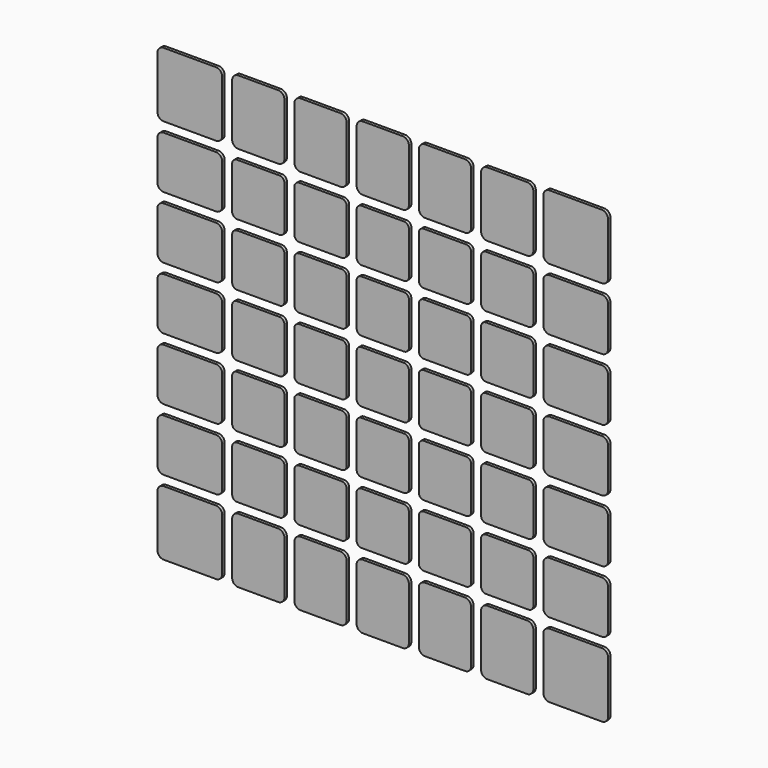
from build123d import *

# Parameters (mm, degrees)
F1_DEPTH = 0.5


with BuildPart() as f1:
    # F0 (on Front) → F1 (new body)
    with BuildSketch(Plane.XZ):
        with BuildLine():
            ThreePointArc((4.2, 3.4), (3.965685, 3.965685), (3.4, 4.2))
            Line((3.4, 4.2), (-3.4, 4.2))
            ThreePointArc((-3.4, 4.2), (-3.965685, 3.965685), (-4.2, 3.4))
            Line((-4.2, 3.4), (-4.2, -3.4))
            ThreePointArc((-4.2, -3.4), (-3.965685, -3.965685), (-3.4, -4.2))
            Line((-3.4, -4.2), (3.4, -4.2))
            ThreePointArc((3.4, -4.2), (3.965685, -3.965685), (4.2, -3.4))
            Line((4.2, -3.4), (4.2, 3.4))
        make_face()
        with BuildLine():
            ThreePointArc((6.6, 4.2), (6.034315, 3.965685), (5.8, 3.4))
            Line((5.8, 3.4), (5.8, -3.4))
            ThreePointArc((5.8, -3.4), (6.034315, -3.965685), (6.6, -4.2))
            Line((6.6, -4.2), (13.4, -4.2))
            ThreePointArc((13.4, -4.2), (13.965685, -3.965685), (14.2, -3.4))
            Line((14.2, -3.4), (14.2, 3.4))
            ThreePointArc((14.2, 3.4), (13.965685, 3.965685), (13.4, 4.2))
            Line((13.4, 4.2), (6.6, 4.2))
        make_face()
        with BuildLine():
            ThreePointArc((16.6, 4.2), (16.034315, 3.965685), (15.8, 3.4))
            Line((15.8, 3.4), (15.8, -3.4))
            ThreePointArc((15.8, -3.4), (16.034315, -3.965685), (16.6, -4.2))
            Line((16.6, -4.2), (23.4, -4.2))
            ThreePointArc((23.4, -4.2), (23.965685, -3.965685), (24.2, -3.4))
            Line((24.2, -3.4), (24.2, 3.4))
            ThreePointArc((24.2, 3.4), (23.965685, 3.965685), (23.4, 4.2))
            Line((23.4, 4.2), (16.6, 4.2))
        make_face()
        with BuildLine():
            ThreePointArc((25.8, -3.2), (26.092893, -3.907107), (26.8, -4.2))
            Line((26.8, -4.2), (35.2, -4.2))
            ThreePointArc((35.2, -4.2), (35.907107, -3.907107), (36.2, -3.2))
            Line((36.2, -3.2), (36.2, 3.2))
            ThreePointArc((36.2, 3.2), (35.907107, 3.907107), (35.2, 4.2))
            Line((35.2, 4.2), (26.8, 4.2))
            ThreePointArc((26.8, 4.2), (26.092893, 3.907107), (25.8, 3.2))
            Line((25.8, 3.2), (25.8, -3.2))
        make_face()
        with BuildLine():
            ThreePointArc((16.6, 14.2), (16.034315, 13.965685), (15.8, 13.4))
            Line((15.8, 13.4), (15.8, 6.6))
            ThreePointArc((15.8, 6.6), (16.034315, 6.034315), (16.6, 5.8))
            Line((16.6, 5.8), (23.4, 5.8))
            ThreePointArc((23.4, 5.8), (23.965685, 6.034315), (24.2, 6.6))
            Line((24.2, 6.6), (24.2, 13.4))
            ThreePointArc((24.2, 13.4), (23.965685, 13.965685), (23.4, 14.2))
            Line((23.4, 14.2), (16.6, 14.2))
        make_face()
        with BuildLine():
            Line((25.8, 13.2), (25.8, 6.8))
            ThreePointArc((25.8, 6.8), (26.092893, 6.092893), (26.8, 5.8))
            Line((26.8, 5.8), (35.2, 5.8))
            ThreePointArc((35.2, 5.8), (35.907107, 6.092893), (36.2, 6.8))
            Line((36.2, 6.8), (36.2, 13.2))
            ThreePointArc((36.2, 13.2), (35.907107, 13.907107), (35.2, 14.2))
            Line((35.2, 14.2), (26.8, 14.2))
            ThreePointArc((26.8, 14.2), (26.092893, 13.907107), (25.8, 13.2))
        make_face()
        with BuildLine():
            ThreePointArc((14.2, 13.4), (13.965685, 13.965685), (13.4, 14.2))
            Line((13.4, 14.2), (6.6, 14.2))
            ThreePointArc((6.6, 14.2), (6.034315, 13.965685), (5.8, 13.4))
            Line((5.8, 13.4), (5.8, 6.6))
            ThreePointArc((5.8, 6.6), (6.034315, 6.034315), (6.6, 5.8))
            Line((6.6, 5.8), (13.4, 5.8))
            ThreePointArc((13.4, 5.8), (13.965685, 6.034315), (14.2, 6.6))
            Line((14.2, 6.6), (14.2, 13.4))
        make_face()
        with BuildLine():
            ThreePointArc((16.6, 24.2), (16.034315, 23.965685), (15.8, 23.4))
            Line((15.8, 23.4), (15.8, 16.6))
            ThreePointArc((15.8, 16.6), (16.034315, 16.034315), (16.6, 15.8))
            Line((16.6, 15.8), (23.4, 15.8))
            ThreePointArc((23.4, 15.8), (23.965685, 16.034315), (24.2, 16.6))
            Line((24.2, 16.6), (24.2, 23.4))
            ThreePointArc((24.2, 23.4), (23.965685, 23.965685), (23.4, 24.2))
            Line((23.4, 24.2), (16.6, 24.2))
        make_face()
        with BuildLine():
            Line((25.8, 23.2), (25.8, 16.8))
            ThreePointArc((25.8, 16.8), (26.092893, 16.092893), (26.8, 15.8))
            Line((26.8, 15.8), (35.2, 15.8))
            ThreePointArc((35.2, 15.8), (35.907107, 16.092893), (36.2, 16.8))
            Line((36.2, 16.8), (36.2, 23.2))
            ThreePointArc((36.2, 23.2), (35.907107, 23.907107), (35.2, 24.2))
            Line((35.2, 24.2), (26.8, 24.2))
            ThreePointArc((26.8, 24.2), (26.092893, 23.907107), (25.8, 23.2))
        make_face()
        with BuildLine():
            ThreePointArc((14.2, 23.4), (13.965685, 23.965685), (13.4, 24.2))
            Line((13.4, 24.2), (6.6, 24.2))
            ThreePointArc((6.6, 24.2), (6.034315, 23.965685), (5.8, 23.4))
            Line((5.8, 23.4), (5.8, 16.6))
            ThreePointArc((5.8, 16.6), (6.034315, 16.034315), (6.6, 15.8))
            Line((6.6, 15.8), (13.4, 15.8))
            ThreePointArc((13.4, 15.8), (13.965685, 16.034315), (14.2, 16.6))
            Line((14.2, 16.6), (14.2, 23.4))
        make_face()
        with BuildLine():
            ThreePointArc((25.8, 26.8), (26.092893, 26.092893), (26.8, 25.8))
            Line((26.8, 25.8), (35.2, 25.8))
            ThreePointArc((35.2, 25.8), (35.907107, 26.092893), (36.2, 26.8))
            Line((36.2, 26.8), (36.2, 35.2))
            ThreePointArc((36.2, 35.2), (35.907107, 35.907107), (35.2, 36.2))
            Line((35.2, 36.2), (26.8, 36.2))
            ThreePointArc((26.8, 36.2), (26.092893, 35.907107), (25.8, 35.2))
            Line((25.8, 35.2), (25.8, 26.8))
        make_face()
        with BuildLine():
            ThreePointArc((35.2, -14.2), (35.907107, -13.907107), (36.2, -13.2))
            Line((36.2, -13.2), (36.2, -6.8))
            ThreePointArc((36.2, -6.8), (35.907107, -6.092893), (35.2, -5.8))
            Line((35.2, -5.8), (26.8, -5.8))
            ThreePointArc((26.8, -5.8), (26.092893, -6.092893), (25.8, -6.8))
            Line((25.8, -6.8), (25.8, -13.2))
            ThreePointArc((25.8, -13.2), (26.092893, -13.907107), (26.8, -14.2))
            Line((26.8, -14.2), (35.2, -14.2))
        make_face()
        with BuildLine():
            ThreePointArc((35.2, -24.2), (35.907107, -23.907107), (36.2, -23.2))
            Line((36.2, -23.2), (36.2, -16.8))
            ThreePointArc((36.2, -16.8), (35.907107, -16.092893), (35.2, -15.8))
            Line((35.2, -15.8), (26.8, -15.8))
            ThreePointArc((26.8, -15.8), (26.092893, -16.092893), (25.8, -16.8))
            Line((25.8, -16.8), (25.8, -23.2))
            ThreePointArc((25.8, -23.2), (26.092893, -23.907107), (26.8, -24.2))
            Line((26.8, -24.2), (35.2, -24.2))
        make_face()
        with BuildLine():
            Line((-4.2, 35.2), (-4.2, 26.8))
            ThreePointArc((-4.2, 26.8), (-3.907107, 26.092893), (-3.2, 25.8))
            Line((-3.2, 25.8), (3.2, 25.8))
            ThreePointArc((3.2, 25.8), (3.907107, 26.092893), (4.2, 26.8))
            Line((4.2, 26.8), (4.2, 35.2))
            ThreePointArc((4.2, 35.2), (3.907107, 35.907107), (3.2, 36.2))
            Line((3.2, 36.2), (-3.2, 36.2))
            ThreePointArc((-3.2, 36.2), (-3.907107, 35.907107), (-4.2, 35.2))
        make_face()
        with BuildLine():
            Line((-23.2, 25.8), (-16.8, 25.8))
            ThreePointArc((-16.8, 25.8), (-16.092893, 26.092893), (-15.8, 26.8))
            Line((-15.8, 26.8), (-15.8, 35.2))
            ThreePointArc((-15.8, 35.2), (-16.092893, 35.907107), (-16.8, 36.2))
            Line((-16.8, 36.2), (-23.2, 36.2))
            ThreePointArc((-23.2, 36.2), (-23.907107, 35.907107), (-24.2, 35.2))
            Line((-24.2, 35.2), (-24.2, 26.8))
            ThreePointArc((-24.2, 26.8), (-23.907107, 26.092893), (-23.2, 25.8))
        make_face()
        with BuildLine():
            Line((-35.2, 25.8), (-26.8, 25.8))
            ThreePointArc((-26.8, 25.8), (-26.092893, 26.092893), (-25.8, 26.8))
            Line((-25.8, 26.8), (-25.8, 35.2))
            ThreePointArc((-25.8, 35.2), (-26.092893, 35.907107), (-26.8, 36.2))
            Line((-26.8, 36.2), (-35.2, 36.2))
            ThreePointArc((-35.2, 36.2), (-35.907107, 35.907107), (-36.2, 35.2))
            Line((-36.2, 35.2), (-36.2, 26.8))
            ThreePointArc((-36.2, 26.8), (-35.907107, 26.092893), (-35.2, 25.8))
        make_face()
        with BuildLine():
            ThreePointArc((-5.8, 35.2), (-6.092893, 35.907107), (-6.8, 36.2))
            Line((-6.8, 36.2), (-13.2, 36.2))
            ThreePointArc((-13.2, 36.2), (-13.907107, 35.907107), (-14.2, 35.2))
            Line((-14.2, 35.2), (-14.2, 26.8))
            ThreePointArc((-14.2, 26.8), (-13.907107, 26.092893), (-13.2, 25.8))
            Line((-13.2, 25.8), (-6.8, 25.8))
            ThreePointArc((-6.8, 25.8), (-6.092893, 26.092893), (-5.8, 26.8))
            Line((-5.8, 26.8), (-5.8, 35.2))
        make_face()
        with BuildLine():
            ThreePointArc((23.2, 25.8), (23.907107, 26.092893), (24.2, 26.8))
            Line((24.2, 26.8), (24.2, 35.2))
            ThreePointArc((24.2, 35.2), (23.907107, 35.907107), (23.2, 36.2))
            Line((23.2, 36.2), (16.8, 36.2))
            ThreePointArc((16.8, 36.2), (16.092893, 35.907107), (15.8, 35.2))
            Line((15.8, 35.2), (15.8, 26.8))
            ThreePointArc((15.8, 26.8), (16.092893, 26.092893), (16.8, 25.8))
            Line((16.8, 25.8), (23.2, 25.8))
        make_face()
        with BuildLine():
            ThreePointArc((-24.2, 6.6), (-23.965685, 6.034315), (-23.4, 5.8))
            Line((-23.4, 5.8), (-16.6, 5.8))
            ThreePointArc((-16.6, 5.8), (-16.034315, 6.034315), (-15.8, 6.6))
            Line((-15.8, 6.6), (-15.8, 13.4))
            ThreePointArc((-15.8, 13.4), (-16.034315, 13.965685), (-16.6, 14.2))
            Line((-16.6, 14.2), (-23.4, 14.2))
            ThreePointArc((-23.4, 14.2), (-23.965685, 13.965685), (-24.2, 13.4))
            Line((-24.2, 13.4), (-24.2, 6.6))
        make_face()
        with BuildLine():
            ThreePointArc((-14.2, 6.6), (-13.965685, 6.034315), (-13.4, 5.8))
            Line((-13.4, 5.8), (-6.6, 5.8))
            ThreePointArc((-6.6, 5.8), (-6.034315, 6.034315), (-5.8, 6.6))
            Line((-5.8, 6.6), (-5.8, 13.4))
            ThreePointArc((-5.8, 13.4), (-6.034315, 13.965685), (-6.6, 14.2))
            Line((-6.6, 14.2), (-13.4, 14.2))
            ThreePointArc((-13.4, 14.2), (-13.965685, 13.965685), (-14.2, 13.4))
            Line((-14.2, 13.4), (-14.2, 6.6))
        make_face()
        with BuildLine():
            Line((5.8, 35.2), (5.8, 26.8))
            ThreePointArc((5.8, 26.8), (6.092893, 26.092893), (6.8, 25.8))
            Line((6.8, 25.8), (13.2, 25.8))
            ThreePointArc((13.2, 25.8), (13.907107, 26.092893), (14.2, 26.8))
            Line((14.2, 26.8), (14.2, 35.2))
            ThreePointArc((14.2, 35.2), (13.907107, 35.907107), (13.2, 36.2))
            Line((13.2, 36.2), (6.8, 36.2))
            ThreePointArc((6.8, 36.2), (6.092893, 35.907107), (5.8, 35.2))
        make_face()
        with BuildLine():
            ThreePointArc((-24.2, 16.6), (-23.965685, 16.034315), (-23.4, 15.8))
            Line((-23.4, 15.8), (-16.6, 15.8))
            ThreePointArc((-16.6, 15.8), (-16.034315, 16.034315), (-15.8, 16.6))
            Line((-15.8, 16.6), (-15.8, 23.4))
            ThreePointArc((-15.8, 23.4), (-16.034315, 23.965685), (-16.6, 24.2))
            Line((-16.6, 24.2), (-23.4, 24.2))
            ThreePointArc((-23.4, 24.2), (-23.965685, 23.965685), (-24.2, 23.4))
            Line((-24.2, 23.4), (-24.2, 16.6))
        make_face()
        with BuildLine():
            Line((3.4, 14.2), (-3.4, 14.2))
            ThreePointArc((-3.4, 14.2), (-3.965685, 13.965685), (-4.2, 13.4))
            Line((-4.2, 13.4), (-4.2, 6.6))
            ThreePointArc((-4.2, 6.6), (-3.965685, 6.034315), (-3.4, 5.8))
            Line((-3.4, 5.8), (3.4, 5.8))
            ThreePointArc((3.4, 5.8), (3.965685, 6.034315), (4.2, 6.6))
            Line((4.2, 6.6), (4.2, 13.4))
            ThreePointArc((4.2, 13.4), (3.965685, 13.965685), (3.4, 14.2))
        make_face()
        with BuildLine():
            ThreePointArc((-13.4, 24.2), (-13.965685, 23.965685), (-14.2, 23.4))
            Line((-14.2, 23.4), (-14.2, 16.6))
            ThreePointArc((-14.2, 16.6), (-13.965685, 16.034315), (-13.4, 15.8))
            Line((-13.4, 15.8), (-6.6, 15.8))
            ThreePointArc((-6.6, 15.8), (-6.034315, 16.034315), (-5.8, 16.6))
            Line((-5.8, 16.6), (-5.8, 23.4))
            ThreePointArc((-5.8, 23.4), (-6.034315, 23.965685), (-6.6, 24.2))
            Line((-6.6, 24.2), (-13.4, 24.2))
        make_face()
        with BuildLine():
            ThreePointArc((-3.4, 24.2), (-3.965685, 23.965685), (-4.2, 23.4))
            Line((-4.2, 23.4), (-4.2, 16.6))
            ThreePointArc((-4.2, 16.6), (-3.965685, 16.034315), (-3.4, 15.8))
            Line((-3.4, 15.8), (3.4, 15.8))
            ThreePointArc((3.4, 15.8), (3.965685, 16.034315), (4.2, 16.6))
            Line((4.2, 16.6), (4.2, 23.4))
            ThreePointArc((4.2, 23.4), (3.965685, 23.965685), (3.4, 24.2))
            Line((3.4, 24.2), (-3.4, 24.2))
        make_face()
        with BuildLine():
            Line((-35.2, -4.2), (-26.8, -4.2))
            ThreePointArc((-26.8, -4.2), (-26.092893, -3.907107), (-25.8, -3.2))
            Line((-25.8, -3.2), (-25.8, 3.2))
            ThreePointArc((-25.8, 3.2), (-26.092893, 3.907107), (-26.8, 4.2))
            Line((-26.8, 4.2), (-35.2, 4.2))
            ThreePointArc((-35.2, 4.2), (-35.907107, 3.907107), (-36.2, 3.2))
            Line((-36.2, 3.2), (-36.2, -3.2))
            ThreePointArc((-36.2, -3.2), (-35.907107, -3.907107), (-35.2, -4.2))
        make_face()
        with BuildLine():
            Line((-25.8, -23.2), (-25.8, -16.8))
            ThreePointArc((-25.8, -16.8), (-26.092893, -16.092893), (-26.8, -15.8))
            Line((-26.8, -15.8), (-35.2, -15.8))
            ThreePointArc((-35.2, -15.8), (-35.907107, -16.092893), (-36.2, -16.8))
            Line((-36.2, -16.8), (-36.2, -23.2))
            ThreePointArc((-36.2, -23.2), (-35.907107, -23.907107), (-35.2, -24.2))
            Line((-35.2, -24.2), (-26.8, -24.2))
            ThreePointArc((-26.8, -24.2), (-26.092893, -23.907107), (-25.8, -23.2))
        make_face()
        with BuildLine():
            Line((-25.8, -35.2), (-25.8, -26.8))
            ThreePointArc((-25.8, -26.8), (-26.092893, -26.092893), (-26.8, -25.8))
            Line((-26.8, -25.8), (-35.2, -25.8))
            ThreePointArc((-35.2, -25.8), (-35.907107, -26.092893), (-36.2, -26.8))
            Line((-36.2, -26.8), (-36.2, -35.2))
            ThreePointArc((-36.2, -35.2), (-35.907107, -35.907107), (-35.2, -36.2))
            Line((-35.2, -36.2), (-26.8, -36.2))
            ThreePointArc((-26.8, -36.2), (-26.092893, -35.907107), (-25.8, -35.2))
        make_face()
        with BuildLine():
            ThreePointArc((-35.2, -5.8), (-35.907107, -6.092893), (-36.2, -6.8))
            Line((-36.2, -6.8), (-36.2, -13.2))
            ThreePointArc((-36.2, -13.2), (-35.907107, -13.907107), (-35.2, -14.2))
            Line((-35.2, -14.2), (-26.8, -14.2))
            ThreePointArc((-26.8, -14.2), (-26.092893, -13.907107), (-25.8, -13.2))
            Line((-25.8, -13.2), (-25.8, -6.8))
            ThreePointArc((-25.8, -6.8), (-26.092893, -6.092893), (-26.8, -5.8))
            Line((-26.8, -5.8), (-35.2, -5.8))
        make_face()
        with BuildLine():
            ThreePointArc((-25.8, 23.2), (-26.092893, 23.907107), (-26.8, 24.2))
            Line((-26.8, 24.2), (-35.2, 24.2))
            ThreePointArc((-35.2, 24.2), (-35.907107, 23.907107), (-36.2, 23.2))
            Line((-36.2, 23.2), (-36.2, 16.8))
            ThreePointArc((-36.2, 16.8), (-35.907107, 16.092893), (-35.2, 15.8))
            Line((-35.2, 15.8), (-26.8, 15.8))
            ThreePointArc((-26.8, 15.8), (-26.092893, 16.092893), (-25.8, 16.8))
            Line((-25.8, 16.8), (-25.8, 23.2))
        make_face()
        with BuildLine():
            ThreePointArc((-6.6, -24.2), (-6.034315, -23.965685), (-5.8, -23.4))
            Line((-5.8, -23.4), (-5.8, -16.6))
            ThreePointArc((-5.8, -16.6), (-6.034315, -16.034315), (-6.6, -15.8))
            Line((-6.6, -15.8), (-13.4, -15.8))
            ThreePointArc((-13.4, -15.8), (-13.965685, -16.034315), (-14.2, -16.6))
            Line((-14.2, -16.6), (-14.2, -23.4))
            ThreePointArc((-14.2, -23.4), (-13.965685, -23.965685), (-13.4, -24.2))
            Line((-13.4, -24.2), (-6.6, -24.2))
        make_face()
        with BuildLine():
            ThreePointArc((-6.6, -14.2), (-6.034315, -13.965685), (-5.8, -13.4))
            Line((-5.8, -13.4), (-5.8, -6.6))
            ThreePointArc((-5.8, -6.6), (-6.034315, -6.034315), (-6.6, -5.8))
            Line((-6.6, -5.8), (-13.4, -5.8))
            ThreePointArc((-13.4, -5.8), (-13.965685, -6.034315), (-14.2, -6.6))
            Line((-14.2, -6.6), (-14.2, -13.4))
            ThreePointArc((-14.2, -13.4), (-13.965685, -13.965685), (-13.4, -14.2))
            Line((-13.4, -14.2), (-6.6, -14.2))
        make_face()
        with BuildLine():
            Line((-35.2, 5.8), (-26.8, 5.8))
            ThreePointArc((-26.8, 5.8), (-26.092893, 6.092893), (-25.8, 6.8))
            Line((-25.8, 6.8), (-25.8, 13.2))
            ThreePointArc((-25.8, 13.2), (-26.092893, 13.907107), (-26.8, 14.2))
            Line((-26.8, 14.2), (-35.2, 14.2))
            ThreePointArc((-35.2, 14.2), (-35.907107, 13.907107), (-36.2, 13.2))
            Line((-36.2, 13.2), (-36.2, 6.8))
            ThreePointArc((-36.2, 6.8), (-35.907107, 6.092893), (-35.2, 5.8))
        make_face()
        with BuildLine():
            ThreePointArc((-16.6, -24.2), (-16.034315, -23.965685), (-15.8, -23.4))
            Line((-15.8, -23.4), (-15.8, -16.6))
            ThreePointArc((-15.8, -16.6), (-16.034315, -16.034315), (-16.6, -15.8))
            Line((-16.6, -15.8), (-23.4, -15.8))
            ThreePointArc((-23.4, -15.8), (-23.965685, -16.034315), (-24.2, -16.6))
            Line((-24.2, -16.6), (-24.2, -23.4))
            ThreePointArc((-24.2, -23.4), (-23.965685, -23.965685), (-23.4, -24.2))
            Line((-23.4, -24.2), (-16.6, -24.2))
        make_face()
        with BuildLine():
            Line((-14.2, 3.4), (-14.2, -3.4))
            ThreePointArc((-14.2, -3.4), (-13.965685, -3.965685), (-13.4, -4.2))
            Line((-13.4, -4.2), (-6.6, -4.2))
            ThreePointArc((-6.6, -4.2), (-6.034315, -3.965685), (-5.8, -3.4))
            Line((-5.8, -3.4), (-5.8, 3.4))
            ThreePointArc((-5.8, 3.4), (-6.034315, 3.965685), (-6.6, 4.2))
            Line((-6.6, 4.2), (-13.4, 4.2))
            ThreePointArc((-13.4, 4.2), (-13.965685, 3.965685), (-14.2, 3.4))
        make_face()
        with BuildLine():
            ThreePointArc((-24.2, -13.4), (-23.965685, -13.965685), (-23.4, -14.2))
            Line((-23.4, -14.2), (-16.6, -14.2))
            ThreePointArc((-16.6, -14.2), (-16.034315, -13.965685), (-15.8, -13.4))
            Line((-15.8, -13.4), (-15.8, -6.6))
            ThreePointArc((-15.8, -6.6), (-16.034315, -6.034315), (-16.6, -5.8))
            Line((-16.6, -5.8), (-23.4, -5.8))
            ThreePointArc((-23.4, -5.8), (-23.965685, -6.034315), (-24.2, -6.6))
            Line((-24.2, -6.6), (-24.2, -13.4))
        make_face()
        with BuildLine():
            ThreePointArc((-24.2, -3.4), (-23.965685, -3.965685), (-23.4, -4.2))
            Line((-23.4, -4.2), (-16.6, -4.2))
            ThreePointArc((-16.6, -4.2), (-16.034315, -3.965685), (-15.8, -3.4))
            Line((-15.8, -3.4), (-15.8, 3.4))
            ThreePointArc((-15.8, 3.4), (-16.034315, 3.965685), (-16.6, 4.2))
            Line((-16.6, 4.2), (-23.4, 4.2))
            ThreePointArc((-23.4, 4.2), (-23.965685, 3.965685), (-24.2, 3.4))
            Line((-24.2, 3.4), (-24.2, -3.4))
        make_face()
        with BuildLine():
            Line((4.2, -35.2), (4.2, -26.8))
            ThreePointArc((4.2, -26.8), (3.907107, -26.092893), (3.2, -25.8))
            Line((3.2, -25.8), (-3.2, -25.8))
            ThreePointArc((-3.2, -25.8), (-3.907107, -26.092893), (-4.2, -26.8))
            Line((-4.2, -26.8), (-4.2, -35.2))
            ThreePointArc((-4.2, -35.2), (-3.907107, -35.907107), (-3.2, -36.2))
            Line((-3.2, -36.2), (3.2, -36.2))
            ThreePointArc((3.2, -36.2), (3.907107, -35.907107), (4.2, -35.2))
        make_face()
        with BuildLine():
            Line((23.2, -25.8), (16.8, -25.8))
            ThreePointArc((16.8, -25.8), (16.092893, -26.092893), (15.8, -26.8))
            Line((15.8, -26.8), (15.8, -35.2))
            ThreePointArc((15.8, -35.2), (16.092893, -35.907107), (16.8, -36.2))
            Line((16.8, -36.2), (23.2, -36.2))
            ThreePointArc((23.2, -36.2), (23.907107, -35.907107), (24.2, -35.2))
            Line((24.2, -35.2), (24.2, -26.8))
            ThreePointArc((24.2, -26.8), (23.907107, -26.092893), (23.2, -25.8))
        make_face()
        with BuildLine():
            Line((35.2, -25.8), (26.8, -25.8))
            ThreePointArc((26.8, -25.8), (26.092893, -26.092893), (25.8, -26.8))
            Line((25.8, -26.8), (25.8, -35.2))
            ThreePointArc((25.8, -35.2), (26.092893, -35.907107), (26.8, -36.2))
            Line((26.8, -36.2), (35.2, -36.2))
            ThreePointArc((35.2, -36.2), (35.907107, -35.907107), (36.2, -35.2))
            Line((36.2, -35.2), (36.2, -26.8))
            ThreePointArc((36.2, -26.8), (35.907107, -26.092893), (35.2, -25.8))
        make_face()
        with BuildLine():
            ThreePointArc((5.8, -35.2), (6.092893, -35.907107), (6.8, -36.2))
            Line((6.8, -36.2), (13.2, -36.2))
            ThreePointArc((13.2, -36.2), (13.907107, -35.907107), (14.2, -35.2))
            Line((14.2, -35.2), (14.2, -26.8))
            ThreePointArc((14.2, -26.8), (13.907107, -26.092893), (13.2, -25.8))
            Line((13.2, -25.8), (6.8, -25.8))
            ThreePointArc((6.8, -25.8), (6.092893, -26.092893), (5.8, -26.8))
            Line((5.8, -26.8), (5.8, -35.2))
        make_face()
        with BuildLine():
            ThreePointArc((-23.2, -25.8), (-23.907107, -26.092893), (-24.2, -26.8))
            Line((-24.2, -26.8), (-24.2, -35.2))
            ThreePointArc((-24.2, -35.2), (-23.907107, -35.907107), (-23.2, -36.2))
            Line((-23.2, -36.2), (-16.8, -36.2))
            ThreePointArc((-16.8, -36.2), (-16.092893, -35.907107), (-15.8, -35.2))
            Line((-15.8, -35.2), (-15.8, -26.8))
            ThreePointArc((-15.8, -26.8), (-16.092893, -26.092893), (-16.8, -25.8))
            Line((-16.8, -25.8), (-23.2, -25.8))
        make_face()
        with BuildLine():
            ThreePointArc((24.2, -6.6), (23.965685, -6.034315), (23.4, -5.8))
            Line((23.4, -5.8), (16.6, -5.8))
            ThreePointArc((16.6, -5.8), (16.034315, -6.034315), (15.8, -6.6))
            Line((15.8, -6.6), (15.8, -13.4))
            ThreePointArc((15.8, -13.4), (16.034315, -13.965685), (16.6, -14.2))
            Line((16.6, -14.2), (23.4, -14.2))
            ThreePointArc((23.4, -14.2), (23.965685, -13.965685), (24.2, -13.4))
            Line((24.2, -13.4), (24.2, -6.6))
        make_face()
        with BuildLine():
            ThreePointArc((14.2, -6.6), (13.965685, -6.034315), (13.4, -5.8))
            Line((13.4, -5.8), (6.6, -5.8))
            ThreePointArc((6.6, -5.8), (6.034315, -6.034315), (5.8, -6.6))
            Line((5.8, -6.6), (5.8, -13.4))
            ThreePointArc((5.8, -13.4), (6.034315, -13.965685), (6.6, -14.2))
            Line((6.6, -14.2), (13.4, -14.2))
            ThreePointArc((13.4, -14.2), (13.965685, -13.965685), (14.2, -13.4))
            Line((14.2, -13.4), (14.2, -6.6))
        make_face()
        with BuildLine():
            Line((-5.8, -35.2), (-5.8, -26.8))
            ThreePointArc((-5.8, -26.8), (-6.092893, -26.092893), (-6.8, -25.8))
            Line((-6.8, -25.8), (-13.2, -25.8))
            ThreePointArc((-13.2, -25.8), (-13.907107, -26.092893), (-14.2, -26.8))
            Line((-14.2, -26.8), (-14.2, -35.2))
            ThreePointArc((-14.2, -35.2), (-13.907107, -35.907107), (-13.2, -36.2))
            Line((-13.2, -36.2), (-6.8, -36.2))
            ThreePointArc((-6.8, -36.2), (-6.092893, -35.907107), (-5.8, -35.2))
        make_face()
        with BuildLine():
            ThreePointArc((24.2, -16.6), (23.965685, -16.034315), (23.4, -15.8))
            Line((23.4, -15.8), (16.6, -15.8))
            ThreePointArc((16.6, -15.8), (16.034315, -16.034315), (15.8, -16.6))
            Line((15.8, -16.6), (15.8, -23.4))
            ThreePointArc((15.8, -23.4), (16.034315, -23.965685), (16.6, -24.2))
            Line((16.6, -24.2), (23.4, -24.2))
            ThreePointArc((23.4, -24.2), (23.965685, -23.965685), (24.2, -23.4))
            Line((24.2, -23.4), (24.2, -16.6))
        make_face()
        with BuildLine():
            Line((-3.4, -14.2), (3.4, -14.2))
            ThreePointArc((3.4, -14.2), (3.965685, -13.965685), (4.2, -13.4))
            Line((4.2, -13.4), (4.2, -6.6))
            ThreePointArc((4.2, -6.6), (3.965685, -6.034315), (3.4, -5.8))
            Line((3.4, -5.8), (-3.4, -5.8))
            ThreePointArc((-3.4, -5.8), (-3.965685, -6.034315), (-4.2, -6.6))
            Line((-4.2, -6.6), (-4.2, -13.4))
            ThreePointArc((-4.2, -13.4), (-3.965685, -13.965685), (-3.4, -14.2))
        make_face()
        with BuildLine():
            ThreePointArc((13.4, -24.2), (13.965685, -23.965685), (14.2, -23.4))
            Line((14.2, -23.4), (14.2, -16.6))
            ThreePointArc((14.2, -16.6), (13.965685, -16.034315), (13.4, -15.8))
            Line((13.4, -15.8), (6.6, -15.8))
            ThreePointArc((6.6, -15.8), (6.034315, -16.034315), (5.8, -16.6))
            Line((5.8, -16.6), (5.8, -23.4))
            ThreePointArc((5.8, -23.4), (6.034315, -23.965685), (6.6, -24.2))
            Line((6.6, -24.2), (13.4, -24.2))
        make_face()
        with BuildLine():
            ThreePointArc((3.4, -24.2), (3.965685, -23.965685), (4.2, -23.4))
            Line((4.2, -23.4), (4.2, -16.6))
            ThreePointArc((4.2, -16.6), (3.965685, -16.034315), (3.4, -15.8))
            Line((3.4, -15.8), (-3.4, -15.8))
            ThreePointArc((-3.4, -15.8), (-3.965685, -16.034315), (-4.2, -16.6))
            Line((-4.2, -16.6), (-4.2, -23.4))
            ThreePointArc((-4.2, -23.4), (-3.965685, -23.965685), (-3.4, -24.2))
            Line((-3.4, -24.2), (3.4, -24.2))
        make_face()
    extrude(amount=F1_DEPTH)


solid = f1.part
